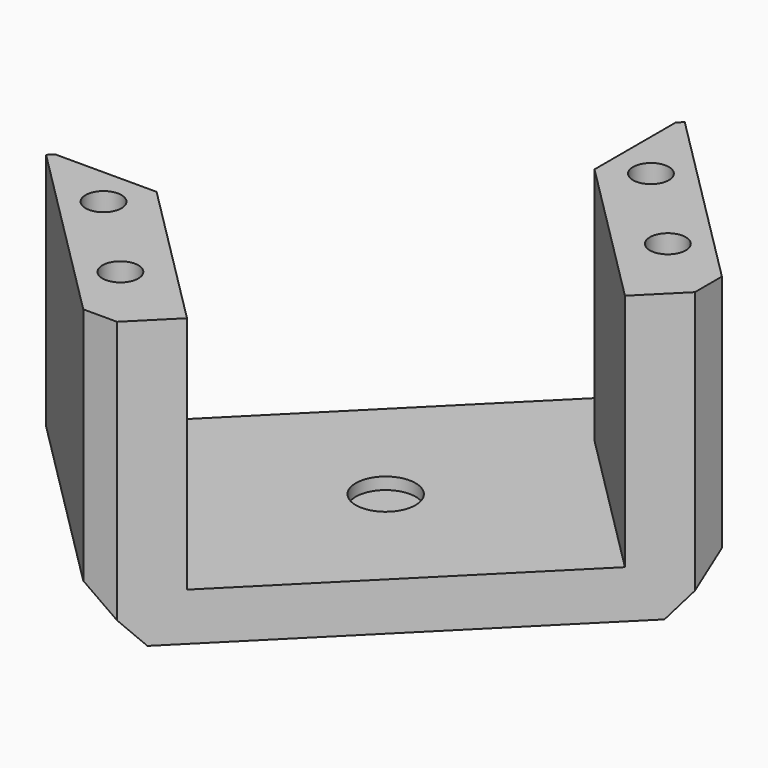
from build123d import *

# Parameters (mm, degrees)
CYLINDER1700_R             = 1.5
CYLINDER1700_DEPTH         = 60
CYLINDER1701_R             = 1.5
CYLINDER1701_DEPTH         = 60
CYLINDER1702_R             = 1.5
CYLINDER1702_DEPTH         = 60
CYLINDER1699_R             = 1.5
CYLINDER1699_DEPTH         = 60
CYLINDER1698_R             = 2.5
CYLINDER1698_DEPTH         = 48
BOX666_W                   = 28.8
BOX666_H                   = 34.21
BOX666_DEPTH               = 20
BOX667_W                   = 42
BOX667_H                   = 24
BOX667_DEPTH               = 24
CHAMFER038_SIZE            = 6
CHAMFER039_SIZE            = 4
CHAMFER044_SIZE            = 2
CHAMFER044_ROLL_ANGLE      = 180
CHAMFER044_PLACEMENT_ANGLE = 44.999934


with BuildPart() as obj1:
    # Cylinder1700 → Cylinder1700 (new body)
    with BuildSketch(Plane(origin=(18, 85, -57), x_dir=(1, 0, 0), z_dir=(0, 0, 1))):
        Circle(CYLINDER1700_R)
    extrude(amount=CYLINDER1700_DEPTH)


with BuildPart() as obj2:
    # Cylinder1701 → Cylinder1701 (new body)
    with BuildSketch(Plane(origin=(-18, 85, -57), x_dir=(1, 0, 0), z_dir=(0, 0, 1))):
        Circle(CYLINDER1701_R)
    extrude(amount=CYLINDER1701_DEPTH)


with BuildPart() as obj3:
    # Cylinder1702 → Cylinder1702 (new body)
    with BuildSketch(Plane(origin=(-18, 95, -57), x_dir=(1, 0, 0), z_dir=(0, 0, 1))):
        Circle(CYLINDER1702_R)
    extrude(amount=CYLINDER1702_DEPTH)


with BuildPart() as compound843:
    # Cylinder1699 → Cylinder1699 (new body)
    with BuildSketch(Plane(origin=(18, 95, -57), x_dir=(1, 0, 0), z_dir=(0, 0, 1))):
        Circle(CYLINDER1699_R)
    extrude(amount=CYLINDER1699_DEPTH)

    # Compound843: union obj1, obj2, obj3
    add(obj1.part)
    add(obj2.part)
    add(obj3.part)


with BuildPart() as compound843_1:
    # Compound843 placement: moved
    add(compound843.part.moved(Location((0, 0, -16))))


with BuildPart() as obj4:
    # Cylinder1698 → Cylinder1698 (new body)
    with BuildSketch(Plane(origin=(0, 90, -55), x_dir=(1, 0, 0), z_dir=(0, 0, 1))):
        Circle(CYLINDER1698_R)
    extrude(amount=CYLINDER1698_DEPTH)


with BuildPart() as compound805:
    # Box666 → Box666 (new body)
    with BuildSketch(Plane(origin=(-14.4, -15.34, 34), x_dir=(1, 0, 0), z_dir=(0, 0, 1))):
        with Locations((14.4, 17.105)):
            Rectangle(BOX666_W, BOX666_H)
    extrude(amount=BOX666_DEPTH)


with BuildPart() as compound805_1:
    # Compound805 placement: moved
    add(compound805.part.moved(Location((0, 90, -83))))


with BuildPart() as chamfer044:
    # Box667 → Box667 (new body)
    with BuildSketch(Plane(origin=(-21, 78, -49), x_dir=(1, 0, 0), z_dir=(0, 0, 1))):
        with Locations((21, 12)):
            Rectangle(BOX667_W, BOX667_H)
    extrude(amount=BOX667_DEPTH)

    # Cut315: cut Compound805
    add(compound805_1.part, mode=Mode.SUBTRACT)


with BuildPart() as chamfer044_1:
    # Cut315 placement: moved
    add(chamfer044.part.moved(Location((0, 0, 21))))

    # Cut316: cut obj4
    add(obj4.part, mode=Mode.SUBTRACT)

    # Chamfer038
    chamfer038_edges = [chamfer044_1.edges().sort_by_distance(p)[0] for p in [
        (-14.4, 78, -18),
        (14.4, 78, -18),
    ]]
    chamfer(chamfer038_edges, length=CHAMFER038_SIZE)

    # Cut325: cut Compound843
    add(compound843_1.part, mode=Mode.SUBTRACT)

    # Chamfer039
    chamfer039_edges = [chamfer044_1.edges().sort_by_distance(p)[0] for p in [
        (-21, 90, -4),
        (21, 90, -4),
    ]]
    chamfer(chamfer039_edges, length=CHAMFER039_SIZE)

    # Chamfer044
    chamfer044_edges = [chamfer044_1.edges().sort_by_distance(p)[0] for p in [
        (-21, 102, -18),
        (21, 102, -18),
    ]]
    chamfer(chamfer044_edges, length=CHAMFER044_SIZE)


with BuildPart() as chamfer044_2:
    # Chamfer044 roll: moved
    add(chamfer044_1.part.rotate(Axis((0, 0, 0), (1, 0, 0)), CHAMFER044_ROLL_ANGLE))


with BuildPart() as chamfer044_3:
    # Chamfer044 placement: moved
    add(chamfer044_2.part.moved(Location((0, 0, 31))).rotate(Axis((0, 0, 31), (0, 0, 1)), CHAMFER044_PLACEMENT_ANGLE))


solid = chamfer044_3.part
